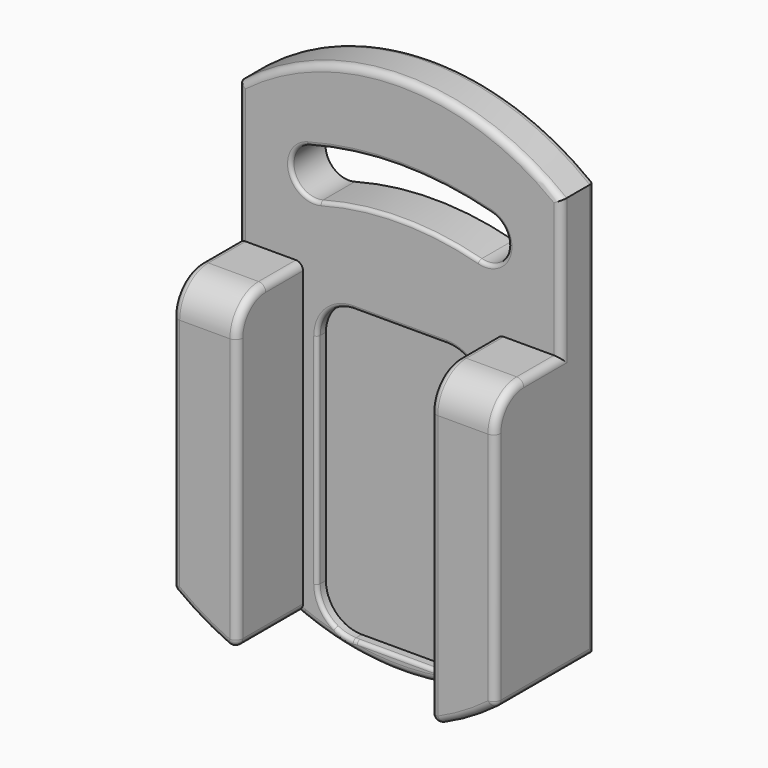
from build123d import *

# Parameters (mm, degrees)
F1_DEPTH = 35
F2_DEPTH = 12
F3_DEPTH = 9
F4_R     = 1
F6_DEPTH = 90.001
F7_R     = 2
F8_R     = 1


with BuildPart() as f1:
    # F0 (on Front) → F1 (new body)
    with BuildSketch(Plane.XZ):
        with BuildLine():
            Line((-27, -20.8232998313), (-27, 66))
            Line((-27, 66), (-45, 66))
            Line((-45, 66), (-45, -10.4804314528))
            ThreePointArc((-45, -10.4804314528), (-36.3695440111, -16.2949940234), (-27, -20.8232998313))
        make_face()
    extrude(amount=F1_DEPTH)



with BuildPart() as f1b:
    # F0 (on Front) → F1, piece 2 (new body)
    with BuildSketch(Plane.XZ):
        with BuildLine():
            Line((45, 66), (27, 66))
            Line((27, 66), (27, -20.8232998313))
            ThreePointArc((27, -20.8232998313), (36.3695440111, -16.2949940234), (45, -10.4804314528))
            Line((45, -10.4804314528), (45, 66))
        make_face()
    extrude(amount=F1_DEPTH)


with BuildPart() as f1_1:
    add(f1.part)

    add(f1b.part)  # F2 merges F1b
    # F0 (on Front) → F2 (join)
    with BuildSketch(Plane.XZ):
        with BuildLine():
            Line((27, 66), (-27, 66))
            Line((-27, 66), (-27, -20.8232998313))
            ThreePointArc((-27, -20.8232998313), (-13.745892245, -24.6941451333), (1.888e-07, -26))
            ThreePointArc((1.888e-07, -26), (13.7458924304, -24.6941450977), (27, -20.8232998313))
            Line((27, -20.8232998313), (27, 66))
        make_face()
        with BuildLine():
            ThreePointArc((-23, 49), (-20.0710678119, 56.0710678119), (-13, 59))
            Line((-13, 59), (13, 59))
            ThreePointArc((13, 59), (20.0710678119, 56.0710678119), (23, 49))
            Line((23, 49), (23, -12))
            ThreePointArc((23, -12), (20.0710678119, -19.0710678119), (13, -22))
            Line((13, -22), (-13, -22))
            ThreePointArc((-13, -22), (-20.0710678119, -19.0710678119), (-23, -12))
            Line((-23, -12), (-23, 49))
        make_face(mode=Mode.SUBTRACT)
        with BuildLine():
            Line((-45, 66), (-27, 66))
            Line((-27, 66), (27, 66))
            Line((27, 66), (45, 66))
            Line((45, 66), (45, 104.4804314528))
            ThreePointArc((45, 104.4804314528), (0, 120), (-45, 104.4804314528))
            Line((-45, 104.4804314528), (-45, 66))
        make_face()
        with BuildLine():
            ThreePointArc((-22.1290283563, 82.5866581477), (-30.0898700203, 87.1828522254), (-25.4936759426, 95.1436938895))
            ThreePointArc((-25.4936759426, 95.1436938895), (0, 98.5), (25.4936759426, 95.1436938895))
            ThreePointArc((25.4936759426, 95.1436938895), (30.0898700203, 87.1828522254), (22.1290283563, 82.5866581477))
            ThreePointArc((22.1290283563, 82.5866581477), (0, 85.5), (-22.1290283563, 82.5866581477))
        make_face(mode=Mode.SUBTRACT)
    extrude(amount=F2_DEPTH)

    # F0 (on Front) → F3 (join)
    with BuildSketch(Plane.XZ):
        with BuildLine():
            Line((13, 59), (-13, 59))
            ThreePointArc((-13, 59), (-20.0710678119, 56.0710678119), (-23, 49))
            Line((-23, 49), (-23, -12))
            ThreePointArc((-23, -12), (-20.0710678119, -19.0710678119), (-13, -22))
            Line((-13, -22), (13, -22))
            ThreePointArc((13, -22), (20.0710678119, -19.0710678119), (23, -12))
            Line((23, -12), (23, 49))
            ThreePointArc((23, 49), (20.0710678119, 56.0710678119), (13, 59))
        make_face()
    extrude(amount=F3_DEPTH)

    # F4
    f4_edges = [f1_1.edges().sort_by_distance(p)[0] for p in [
        (0, -12, 85.5),
        (-30.08987, -12, 87.182852),
        (30.08987, -12, 87.182852),
        (0, -12, 98.5),
    ]]
    fillet(f4_edges, radius=F4_R)

    # F5 (on face) → F6 (cut, through all)
    with BuildSketch(Plane.YZ.offset(45)):
        with BuildLine():
            ThreePointArc((-35, 56), (-32.0710678119, 63.0710678119), (-25, 66))
            Line((-25, 66), (-35, 66))
            Line((-35, 66), (-35, 56))
        make_face()
    extrude(amount=-F6_DEPTH, mode=Mode.SUBTRACT)

    # F7
    f7_edges = [f1_1.edges().sort_by_distance(p)[0] for p in [
        (45, -12, 85.240216),
        (0, -12, 120),
        (-45, -12, 85.240216),
        (45, -32.071068, 63.071068),
        (45, -18.5, 66),
        (45, -35, 22.759784),
        (45, -17.5, -10.480431),
        (45, 0, 47),
        (0, 0, 120),
        (-45, 0, 47),
        (-45, -17.5, -10.480431),
        (-45, -35, 22.759784),
        (-45, -32.071068, 63.071068),
        (-45, -18.5, 66),
        (-36.369544, -35, -16.294994),
        (-27, -23.5, -20.8233),
        (0, -12, -26),
        (27, -23.5, -20.8233),
        (36.369544, -35, -16.294994),
        (27, -35, 17.58835),
        (27, -32.071068, 63.071068),
        (27, -18.5, 66),
        (-27, -18.5, 66),
        (-27, -32.071068, 63.071068),
        (-27, -35, 17.58835),
    ]]
    fillet(f7_edges, radius=F7_R)

    # F8
    f8_edges = [f1_1.edges().sort_by_distance(p)[0] for p in [
        (23, -12, 18.5),
        (-20.071068, -12, 56.071068),
        (-23, -12, 18.5),
        (-20.071068, -12, -19.071068),
        (0, -12, -22),
        (20.071068, -12, -19.071068),
        (20.071068, -12, 56.071068),
        (0, -12, 59),
    ]]
    fillet(f8_edges, radius=F8_R)


solid = f1_1.part
